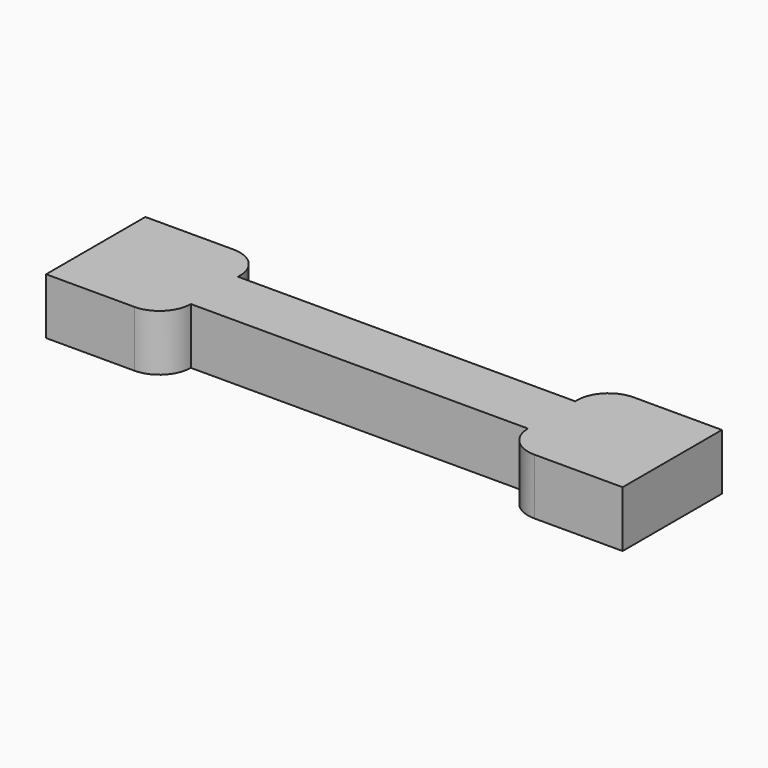
from build123d import *

# Parameters (mm, degrees)
F1_DEPTH = 25.4


with BuildPart() as f1:
    # F0 (on Top) → F1 (new body)
    with BuildSketch(Plane.XY):
        Polygon((-76.211855, 18.343313), (-76.211855, 17.691907), (-76.211855, -8.345137), (0, -8.345137), (0, 8.345137), (0, 18.343313), align=None)
        with BuildLine():
            Line((-76.211855, -8.345137), (-76.211855, 17.691907))
            Line((-76.211855, 17.691907), (-76.211855, 18.343313))
            Line((-76.211855, 18.343313), (-76.211855, 19.464858))
            ThreePointArc((-76.211855, 19.464858), (-80.35492, 29.467103), (-90.357166, 33.610169))
            Line((-90.357166, 33.610169), (-130.292863, 33.610169))
            Line((-130.292863, 33.610169), (-130.292863, -22.490447))
            Line((-130.292863, -22.490447), (-90.357166, -22.490447))
            ThreePointArc((-90.357166, -22.490447), (-80.35492, -18.347382), (-76.211855, -8.345137))
        make_face()
    extrude(amount=F1_DEPTH)

    # F2: F1 across face


with BuildPart() as f1_1:
    add(f1.part)
    add(f1.part.mirror(Plane(origin=(0, 4.999088, 12.7), x_dir=(0, 1, 0), z_dir=(1, 0, 0))))


solid = f1_1.part
